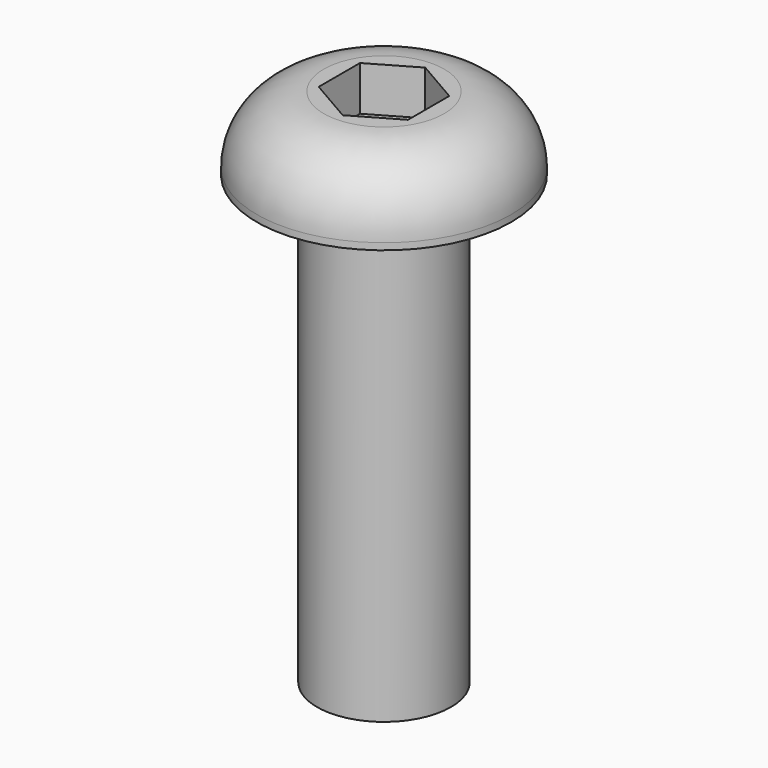
from build123d import *

# Parameters (mm, degrees)
F0_R      = 1.5
F1_DEPTH  = 10
F0_R_2    = 2.85
F1_FACE_R = 1.5
F2_DEPTH  = 1.65
F4_DEPTH  = 1
F5_R      = 1.5


with BuildPart() as f1:
    # F0 (on Top) → F1 (new body)
    with BuildSketch(Plane.XY):
        Circle(F0_R)
    extrude(amount=-F1_DEPTH)

    # F0 (on Top) + F1_face (on face) → F2 (join)
    with BuildSketch(Plane.XY):
        Circle(F0_R_2)
        Circle(F0_R, mode=Mode.SUBTRACT)
    with BuildSketch(Plane.XY):
        Circle(F1_FACE_R)
    extrude(amount=F2_DEPTH)

    # F3 (on face) → F4 (cut)
    with BuildSketch(Plane.XY.offset(1.65)):
        Polygon((0, 1.1547005384), (-1, 0.5773502692), (-1, -0.5773502692), (0, -1.1547005384), (1, -0.5773502692), (1, 0.5773502692), align=None)
    extrude(amount=-F4_DEPTH, mode=Mode.SUBTRACT)

    # F5
    f5_edges = [f1.edges().sort_by_distance(p)[0] for p in [
        (-2.85, 0, 1.65),
    ]]
    fillet(f5_edges, radius=F5_R)


solid = f1.part
